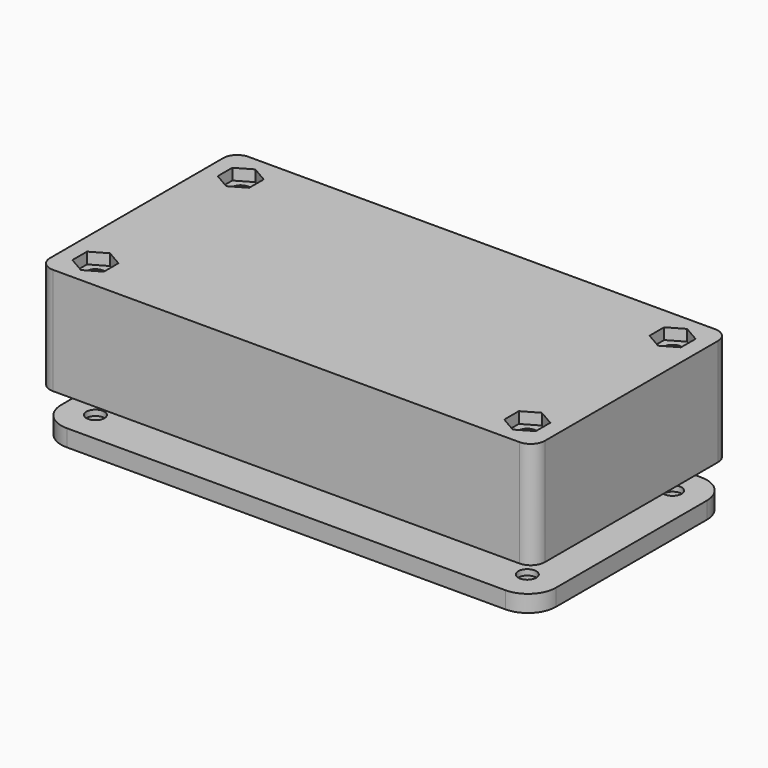
from build123d import *

# Parameters (mm, degrees)
F0_W      = 88
F0_H      = 43.5
F0_W_2    = 82
F0_H_2    = 37.5
F1_DEPTH  = 16
F2_W      = 88
F2_H      = 43.5
F3_DEPTH  = 3
F4_R      = 1.6
F4_R_2    = 3.75
F4_R_3    = 3
F5_DEPTH  = 10
F6_W      = 10
F6_H      = 5
F7_DEPTH  = 25
F8_R      = 1.6
F9_DEPTH  = 25
F11_DEPTH = 2
F12_R     = 2.5
F14_R     = 1.6
F14_W     = 72
F14_H     = 25
F15_DEPTH = 3
F16_R     = 3.25
F17_DEPTH = 2


with BuildPart() as f1:
    # F0 (on Top) → F1 (new body)
    with BuildSketch(Plane.XY):
        with Locations((41, 18.75)):
            Rectangle(F0_W, F0_H)
        with Locations((41, 18.75)):
            Rectangle(F0_W_2, F0_H_2, mode=Mode.SUBTRACT)
    extrude(amount=F1_DEPTH)

    # F2 (on face) → F3 (join)
    with BuildSketch(Plane.XY.offset(16)):
        with Locations((41, 18.75)):
            Rectangle(F2_W, F2_H)
    extrude(amount=F3_DEPTH)

    # F4 (on face) → F5 (join)
    with BuildSketch(Plane(origin=(0, 0, 16), x_dir=(1, 0, 0), z_dir=(0, 0, -1))):
        with BuildLine():
            Line((-0.674958, 0.433956), (-0.149295, -2.662282))
            ThreePointArc((-0.149295, -2.662282), (4.492342, -4.59538), (2.807823, 0.142136))
            Line((2.807823, 0.142136), (-0.674958, 0.433956))
        make_face()
        with Locations((2.6, -2.6)):
            Circle(F4_R, mode=Mode.SUBTRACT)
        with Locations((79.4, -2.6)):
            Circle(F4_R_2)
        with Locations((79.4, -2.6)):
            Circle(F4_R, mode=Mode.SUBTRACT)
        with Locations((79.4, -34.9)):
            Circle(F4_R_3)
        with Locations((79.4, -34.9)):
            Circle(F4_R, mode=Mode.SUBTRACT)
        with Locations((2.6, -34.9)):
            Circle(F4_R_2)
        with Locations((2.6, -34.9)):
            Circle(F4_R, mode=Mode.SUBTRACT)
    extrude(amount=F5_DEPTH)

    # F6 (on face) → F7 (cut)
    with BuildSketch(Plane.YZ):
        with Locations((10, 13.5)):
            Rectangle(F6_W, F6_H)
    extrude(amount=-F7_DEPTH, mode=Mode.SUBTRACT)

    # F8 (on face) → F9 (cut)
    with BuildSketch(Plane(origin=(0, 0, 6), x_dir=(1, 0, 0), z_dir=(0, 0, -1))):
        with Locations((2.6, -2.6)):
            Circle(F8_R)
        with Locations((2.6, -34.9)):
            Circle(F8_R)
        with Locations((79.4, -34.9)):
            Circle(F8_R)
        with Locations((79.4, -2.6)):
            Circle(F8_R)
    extrude(amount=-F9_DEPTH, mode=Mode.SUBTRACT)

    # F10 (on face) → F11 (cut)
    with BuildSketch(Plane.XY.offset(19)):
        Polygon((-0.2, 4.216581), (-0.2, 0.983419), (2.6, -0.633162), (5.4, 0.983419), (5.4, 4.216581), (2.6, 5.833162), align=None)
        Polygon((-0.2, 36.516581), (-0.2, 33.283419), (2.6, 31.666838), (5.4, 33.283419), (5.4, 36.516581), (2.6, 38.133162), align=None)
        Polygon((82.2, 0.983419), (82.2, 4.216581), (79.4, 5.833162), (76.6, 4.216581), (76.6, 0.983419), (79.4, -0.633162), align=None)
        Polygon((82.2, 33.283419), (82.2, 36.516581), (79.4, 38.133162), (76.6, 36.516581), (76.6, 33.283419), (79.4, 31.666838), align=None)
    extrude(amount=-F11_DEPTH, mode=Mode.SUBTRACT)

    # F12
    f12_edges = [f1.edges().sort_by_distance(p)[0] for p in [
        (-3, -3, 9.5),
        (85, -3, 9.5),
        (85, 40.5, 9.5),
        (-3, 40.5, 9.5),
    ]]
    fillet(f12_edges, radius=F12_R)


with BuildPart() as f15:
    # F14 (on offset) → F15 (new body)
    with BuildSketch(Plane.XY.offset(-5)):
        with BuildLine():
            Line((-3, 35.5), (-3, 2))
            ThreePointArc((-3, 2), (-1.535534, -1.535534), (2, -3))
            Line((2, -3), (80, -3))
            ThreePointArc((80, -3), (83.535534, -1.535534), (85, 2))
            Line((85, 2), (85, 35.5))
            ThreePointArc((85, 35.5), (83.535534, 39.035534), (80, 40.5))
            Line((80, 40.5), (2, 40.5))
            ThreePointArc((2, 40.5), (-1.535534, 39.035534), (-3, 35.5))
        make_face()
        with Locations((2.6, 2.6)):
            Circle(F14_R, mode=Mode.SUBTRACT)
        with Locations((79.4, 2.6)):
            Circle(F14_R, mode=Mode.SUBTRACT)
        with Locations((2.6, 34.9)):
            Circle(F14_R, mode=Mode.SUBTRACT)
        with Locations((41, 19)):
            Rectangle(F14_W, F14_H, mode=Mode.SUBTRACT)
        with Locations((79.4, 34.9)):
            Circle(F14_R, mode=Mode.SUBTRACT)
    extrude(amount=-F15_DEPTH)

    # F16 (on face) → F17 (cut)
    with BuildSketch(Plane(origin=(0, 0, -8), x_dir=(1, 0, 0), z_dir=(0, 0, -1))):
        with Locations((2.6, -2.6)):
            Circle(F16_R)
        with Locations((79.4, -2.6)):
            Circle(F16_R)
        with Locations((79.4, -34.9)):
            Circle(F16_R)
        with Locations((2.6, -34.9)):
            Circle(F16_R)
    extrude(amount=-F17_DEPTH, mode=Mode.SUBTRACT)


solid = Compound([f1.part, f15.part])
